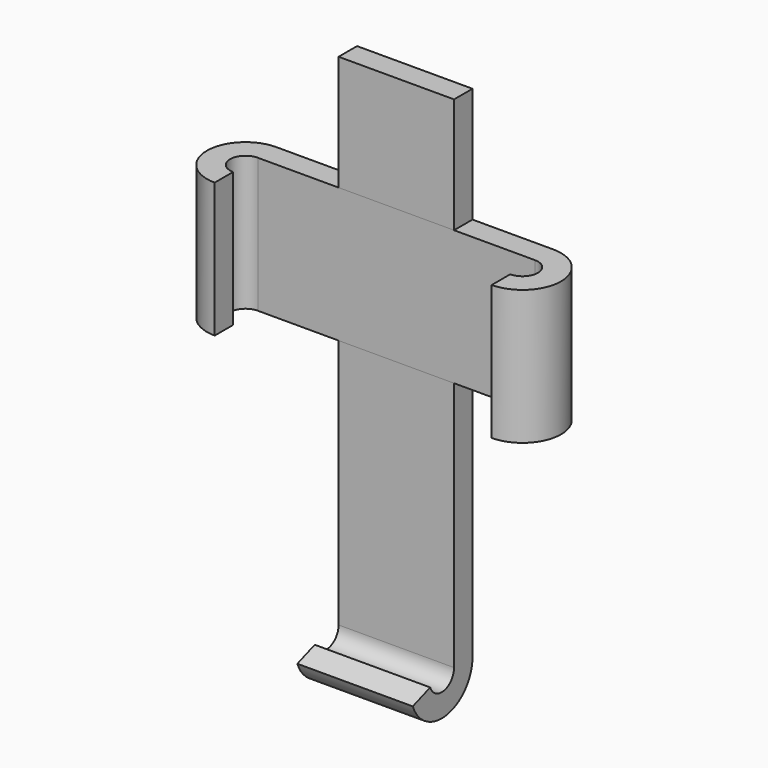
from build123d import *

# Parameters (mm, degrees)
F0_W     = 30
F0_H     = 130
F1_DEPTH = 6
F3_DEPTH = 30
F4_W     = 72
F4_H     = 35
F5_DEPTH = 6
F7_DEPTH = 35
F8_W     = 30
F8_H     = 35
F9_DEPTH = 3


with BuildPart() as f1:
    # F0 (on Front) → F1 (new body)
    with BuildSketch(Plane.XZ):
        with Locations((0, 15)):
            Rectangle(F0_W, F0_H)
    extrude(amount=F1_DEPTH)

    # F2 (on face) → F3 (join, through all)
    with BuildSketch(Plane(origin=(-15, 0, 0), x_dir=(0, -1, 0), z_dir=(-1, 0, 0))):
        with BuildLine():
            Line((6, -50), (0, -50))
            ThreePointArc((0, -50), (8.2635182233, -59.8480775301), (19.3969262079, -53.4202014333))
            Line((19.3969262079, -53.4202014333), (13.7587704831, -51.3680805733))
            ThreePointArc((13.7587704831, -51.3680805733), (9.3054072893, -53.939231012), (6, -50))
        make_face()
    extrude(amount=-F3_DEPTH)

    # F8 (on face) → F9 (cut)
    with BuildSketch(Plane.XZ.offset(6)):
        with Locations((0, 32.5659681112)):
            Rectangle(F8_W, F8_H)
    extrude(amount=-F9_DEPTH, mode=Mode.SUBTRACT)


with BuildPart() as f5:
    # F4 (on Front) → F5 (new body, through all)
    with BuildSketch(Plane.XZ):
        with Locations((0, 32.5659681112)):
            Rectangle(F4_W, F4_H)
    extrude(amount=F5_DEPTH)

    # F6 (on face) → F7 (join, through all)
    with BuildSketch(Plane.XY.offset(50.0659681112)):
        with BuildLine():
            Line((-36, -6), (-36, 0))
            ThreePointArc((-36, 0), (-46, -10), (-36, -20))
            Line((-36, -20), (-36, -14))
            ThreePointArc((-36, -14), (-40, -10), (-36, -6))
        make_face()
        with BuildLine():
            ThreePointArc((36, -20), (46, -10), (36, 0))
            Line((36, 0), (36, -6))
            ThreePointArc((36, -6), (40, -10), (36, -14))
            Line((36, -14), (36, -20))
        make_face()
    extrude(amount=-F7_DEPTH)

    # F10: cut F1
    add(f1.part, mode=Mode.SUBTRACT)


solid = Compound([f1.part, f5.part])
